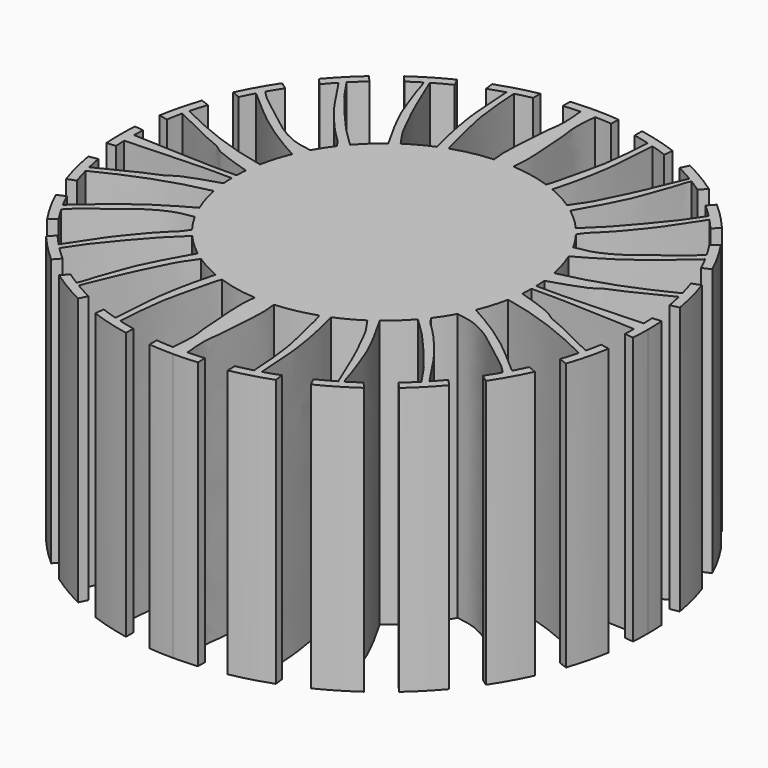
from build123d import *

# Parameters (mm, degrees)
F1_DEPTH = 50


with BuildPart() as f1:
    # F0 (on Top) → F1 (new body)
    with BuildSketch(Plane.XY):
        with BuildLine():
            Line((0, 0), (49.3273986462, 0))
            ThreePointArc((49.3273986462, 0), (49.298916157, 1.6760438374), (49.213501582, 3.3501521216))
            Line((49.213501582, 3.3501521216), (47.5373530083, 3.1717845229))
            ThreePointArc((47.5373530083, 3.1717845229), (47.5942852128, 2.1550320601), (47.6294731034, 1.1372950318))
            add(Edge.make_bspline(
                [(47.6294731034, 1.1372950318), (46.3712920989, 1.0628071526), (43.4352199638, 0.890181972), (36.2008391738, 0.686344171), (31.7515938356, 0.4861788056), (29.2112234836, 0.5364981559), (28.0081679298, 0.559889763)],
                knots=[0, 0, 0, 0, 0.2328109571, 0.5395849587, 0.7831710415, 1, 1, 1, 1], degree=3))
            ThreePointArc((28.0081679298, 0.559889763), (27.969369199, 1.5764941933), (27.8936832529, 2.5910194747))
            add(Edge.make_bspline(
                [(46.3850588031, 10.8759582536), (45.8598270332, 10.6207593434), (44.435961128, 9.9458278042), (39.6938514622, 7.3949704015), (35.981318187, 6.1546861655), (34.7826198673, 4.7659885777), (30.6731847526, 3.4678549046), (27.8936832529, 2.5910194747)],
                knots=[0, 0, 0, 0, 0.1477261764, 0.3900789969, 0.5905522579, 0.7227118143, 1, 1, 1, 1], degree=3))
            ThreePointArc((46.3850588031, 10.8759582536), (46.6985862827, 9.4393954939), (46.967633971, 7.9938418337))
            Line((46.967633971, 7.9938418337), (48.6212113007, 8.3168545045))
            ThreePointArc((48.6212113007, 8.3168545045), (47.8116470611, 12.1341939371), (46.7028665803, 15.875594804))
            Line((46.7028665803, 15.875594804), (45.1214123702, 15.2943876574))
            ThreePointArc((45.1214123702, 15.2943876574), (45.6294740343, 13.704424375), (46.0815284024, 12.0976397778))
            add(Edge.make_bspline(
                [(27.4927480756, 5.3777086742), (28.8996199271, 5.6819161376), (32.1030915932, 6.3756227086), (39.4254133195, 8.8449892021), (43.8684537343, 11.0162260724), (46.0815284024, 12.0976397778)],
                knots=[0, 0, 0, 0, 0.2804796742, 0.6419880735, 1, 1, 1, 1], degree=3))
            ThreePointArc((27.4927480756, 5.3777086742), (26.8003217814, 8.1555931572), (25.8279946818, 10.8483011595))
            add(Edge.make_bspline(
                [(41.9622849228, 22.5616221082), (41.1732003138, 21.8688485387), (39.2645779127, 20.2131431743), (34.4048729326, 16.0100792515), (29.100790265, 12.6573834675), (26.8175433189, 11.3935393327), (25.8279946818, 10.8483011595)],
                knots=[0, 0, 0, 0, 0.2101592807, 0.4990280773, 0.7847387565, 1, 1, 1, 1], degree=3))
            ThreePointArc((41.9622849228, 22.5616221082), (42.6042926127, 21.324502317), (43.2098378046, 20.0691321435))
            Line((43.2098378046, 20.0691321435), (44.7593669132, 20.7314092797))
            ThreePointArc((44.7593669132, 20.7314092797), (43.0031689025, 24.1644309169), (40.9841673723, 27.449777449))
            Line((40.9841673723, 27.449777449), (39.6268848832, 26.4493883209))
            ThreePointArc((39.6268848832, 26.4493883209), (40.4629683279, 25.1517065463), (41.2565717104, 23.8276192432))
            add(Edge.make_bspline(
                [(24.5528357291, 13.4881134704), (25.2238018883, 13.5912810264), (26.5916072967, 13.7918595015), (28.7919870425, 14.4347070447), (32.2533264446, 16.3352503279), (35.5135176454, 19.2277572827), (39.6659422556, 22.0707365112), (40.799584575, 23.3223624272), (41.2565717104, 23.8276192432)],
                knots=[0, 0, 0, 0, 0.1318995589, 0.271495252, 0.4533138354, 0.6526010947, 0.8598101896, 1, 1, 1, 1], degree=3))
            ThreePointArc((24.5528357291, 13.4881134704), (23.5088527795, 15.2349856686), (22.3408068261, 16.9014584487))
            add(Edge.make_bspline(
                [(34.6454470535, 32.7040234001), (33.8649927711, 31.5031967732), (32.3293630696, 29.1648664879), (30.2958538064, 26.1155560615), (27.7330801595, 23.0268659736), (25.5481386251, 20.3412710575), (23.2996800517, 18.4824040334), (22.6411764224, 17.388792518), (22.3408068261, 16.9014584487)],
                knots=[0, 0, 0, 0, 0.1890170361, 0.3655285629, 0.5492034478, 0.7220437242, 0.8771218891, 1, 1, 1, 1], degree=3))
            ThreePointArc((34.6454470535, 32.7040234001), (35.5985501446, 31.6639128298), (36.52044008, 30.5960390322))
            Line((36.52044008, 30.5960390322), (37.6554457069, 31.8631396101))
            ThreePointArc((37.6554457069, 31.8631396101), (35.1815420401, 34.5752998089), (32.5127886275, 37.0959678788))
            Line((32.5127886275, 37.0959678788), (31.3851048708, 35.844599877))
            ThreePointArc((31.3851048708, 35.844599877), (32.6276507802, 34.7173811319), (33.8297396123, 33.5471141212))
            add(Edge.make_bspline(
                [(21.0955733837, 18.43224704), (22.0700672951, 19.3462750947), (24.052239554, 21.2072717305), (26.999161102, 24.5628414529), (29.3318342929, 27.3841201583), (31.5299195684, 30.0456909874), (32.9890924291, 32.2641370078), (33.5789865645, 33.1631534519), (33.8297396123, 33.5471141212)],
                knots=[0, 0, 0, 0, 0.1875745113, 0.383784229, 0.5628819358, 0.7362623182, 0.8869977372, 1, 1, 1, 1], degree=3))
            ThreePointArc((21.0955733837, 18.43224704), (19.1472468565, 20.4488113383), (17.0070868029, 22.2605019218))
            add(Edge.make_bspline(
                [(17.0070868029, 22.2605019218), (17.4155014593, 22.9451904539), (18.3233634859, 24.477237031), (20.1783329247, 28.0049408464), (21.8175031004, 31.2988961323), (22.8383781674, 34.3683908678), (23.9134156285, 37.0080144012), (24.6075396116, 39.7474161959), (24.9370439562, 40.3326570602), (25.0448213736, 40.5292125566)],
                knots=[0, 0, 0, 0, 0.1372246914, 0.3093943302, 0.4765657173, 0.6300655385, 0.7789271603, 0.9219707592, 1, 1, 1, 1], degree=3))
            ThreePointArc((25.0448213736, 40.5292125566), (26.2174526345, 39.780715497), (27.3677305584, 38.9983008884))
            Line((27.3677305584, 38.9983008884), (28.49571128, 40.2639627439))
            ThreePointArc((28.49571128, 40.2639627439), (25.1992296662, 42.4050832027), (21.7427286252, 44.2769241155))
            Line((21.7427286252, 44.2769241155), (20.9962790463, 42.767001465))
            ThreePointArc((20.9962790463, 42.767001465), (22.642910072, 41.9184776867), (24.2553114239, 41.0065850301))
            add(Edge.make_bspline(
                [(24.2553114239, 41.0065850301), (23.7044997667, 39.6983108146), (22.5799219056, 37.0272756944), (20.7544033793, 32.581554416), (19.1841860857, 29.5617304896), (17.6894996673, 26.285845161), (16.2989808217, 24.468075739), (15.7701327054, 23.6653950952), (15.5365029256, 23.3106847641)],
                knots=[0, 0, 0, 0, 0.1954156948, 0.3995384006, 0.5745041675, 0.7513576031, 0.8921086795, 1, 1, 1, 1], degree=3))
            ThreePointArc((15.5365029256, 23.3106847641), (13.2117651001, 24.7026356948), (10.7634244587, 25.8634808418))
            add(Edge.make_bspline(
                [(10.7634244587, 25.8634808418), (10.9059322768, 26.5103179886), (11.2048807012, 27.8990794744), (12.0359149307, 30.612410426), (12.5833008577, 34.0597661665), (13.1727371696, 37.6110964496), (13.2626677064, 40.7786224359), (13.5839765125, 43.8170910605), (13.639853537, 45.0982034997), (13.6581208081, 45.6433553114)],
                knots=[0, 0, 0, 0, 0.1215133014, 0.2641462618, 0.4241786762, 0.5856369393, 0.7386057186, 0.8865603914, 1, 1, 1, 1], degree=3))
            ThreePointArc((13.6581208081, 45.6433553114), (15.167037808, 45.1643787982), (16.6592082372, 44.6355343757))
            Line((16.6592082372, 44.6355343757), (16.867843382, 46.353728187))
            ThreePointArc((16.867843382, 46.353728187), (13.2187655101, 47.5232205936), (9.4899169163, 48.4059266425))
            Line((9.4899169163, 48.4059266425), (9.4899169163, 46.6883457087))
            ThreePointArc((9.4899169163, 46.6883457087), (11.0045945607, 46.3547090019), (12.5076097102, 45.971946309))
            add(Edge.make_bspline(
                [(12.5076097102, 45.971946309), (12.488892371, 45.3906098098), (12.4418705982, 44.0058963919), (12.0618807192, 40.3740692786), (11.6158607939, 36.0651586409), (10.2785826644, 31.2660174206), (9.5690830217, 27.7207748229), (9.2323151338, 26.8275564436), (9.1059726068, 26.4924934692)],
                knots=[0, 0, 0, 0, 0.1295015997, 0.3075996043, 0.5062115312, 0.7197262195, 0.8965447567, 1, 1, 1, 1], degree=3))
            ThreePointArc((9.1059726068, 26.4924934692), (5.497973585, 27.4689503584), (1.7920952056, 27.9563828509))
            add(Edge.make_bspline(
                [(1.7920952056, 27.9563828509), (1.8843936199, 28.6532147829), (2.0893377186, 30.1894695885), (1.9457516203, 33.5011277152), (1.6447474926, 37.0717778636), (1.5338914885, 40.1180998718), (0.9298577098, 42.9411722382), (1.213881654, 45.9425789488), (1.3739338283, 47.6232343918)],
                knots=[0, 0, 0, 0, 0.1373105822, 0.3058526538, 0.4830128617, 0.6428550703, 0.7984320443, 1, 1, 1, 1], degree=3))
            ThreePointArc((1.3739338283, 47.6232343918), (2.9441931769, 47.5519912794), (4.5112477101, 47.428986835))
            Line((4.5112477101, 47.428986835), (4.5295100567, 49.1189962829))
            ThreePointArc((4.5295100567, 49.1189962829), (2.2671509047, 49.2752705114), (0, 49.3273986462))
            Line((0, 49.3273986462), (0, 0))
        make_face()
        with BuildLine():
            ThreePointArc((49.213501582, -3.3501521216), (49.298916157, -1.6760438374), (49.3273986462, 0))
            Line((49.3273986462, 0), (0, 0))
            Line((0, 0), (0, -49.3273986462))
            ThreePointArc((0, -49.3273986462), (2.2671509047, -49.2752705114), (4.5295100567, -49.1189962829))
            Line((4.5295100567, -49.1189962829), (4.5112477101, -47.428986835))
            ThreePointArc((4.5112477101, -47.428986835), (2.9441931769, -47.5519912794), (1.3739338283, -47.6232343918))
            add(Edge.make_bspline(
                [(1.7920952056, -27.9563828509), (1.8843936199, -28.6532147829), (2.0893377186, -30.1894695885), (1.9457516203, -33.5011277152), (1.6447474926, -37.0717778636), (1.5338914885, -40.1180998718), (0.9298577098, -42.9411722382), (1.213881654, -45.9425789488), (1.3739338283, -47.6232343918)],
                knots=[0, 0, 0, 0, 0.1373105822, 0.3058526538, 0.4830128617, 0.6428550703, 0.7984320443, 1, 1, 1, 1], degree=3))
            ThreePointArc((1.7920952056, -27.9563828509), (5.497973585, -27.4689503584), (9.1059726068, -26.4924934692))
            add(Edge.make_bspline(
                [(12.5076097102, -45.971946309), (12.488892371, -45.3906098098), (12.4418705982, -44.0058963919), (12.0618807192, -40.3740692786), (11.6158607939, -36.0651586409), (10.2785826644, -31.2660174206), (9.5690830217, -27.7207748229), (9.2323151338, -26.8275564436), (9.1059726068, -26.4924934692)],
                knots=[0, 0, 0, 0, 0.1295015997, 0.3075996043, 0.5062115312, 0.7197262195, 0.8965447567, 1, 1, 1, 1], degree=3))
            ThreePointArc((12.5076097102, -45.971946309), (11.0045945607, -46.3547090019), (9.4899169163, -46.6883457087))
            Line((9.4899169163, -46.6883457087), (9.4899169163, -48.4059266425))
            ThreePointArc((9.4899169163, -48.4059266425), (13.2187655101, -47.5232205936), (16.867843382, -46.353728187))
            Line((16.867843382, -46.353728187), (16.6592082372, -44.6355343757))
            ThreePointArc((16.6592082372, -44.6355343757), (15.167037808, -45.1643787982), (13.6581208081, -45.6433553114))
            add(Edge.make_bspline(
                [(10.7634244587, -25.8634808418), (10.9059322768, -26.5103179886), (11.2048807012, -27.8990794744), (12.0359149307, -30.612410426), (12.5833008577, -34.0597661665), (13.1727371696, -37.6110964496), (13.2626677064, -40.7786224359), (13.5839765125, -43.8170910605), (13.639853537, -45.0982034997), (13.6581208081, -45.6433553114)],
                knots=[0, 0, 0, 0, 0.1215133014, 0.2641462618, 0.4241786762, 0.5856369393, 0.7386057186, 0.8865603914, 1, 1, 1, 1], degree=3))
            ThreePointArc((10.7634244587, -25.8634808418), (13.2117651001, -24.7026356948), (15.5365029256, -23.3106847641))
            add(Edge.make_bspline(
                [(24.2553114239, -41.0065850301), (23.7044997667, -39.6983108146), (22.5799219056, -37.0272756944), (20.7544033793, -32.581554416), (19.1841860857, -29.5617304896), (17.6894996673, -26.285845161), (16.2989808217, -24.468075739), (15.7701327054, -23.6653950952), (15.5365029256, -23.3106847641)],
                knots=[0, 0, 0, 0, 0.1954156948, 0.3995384006, 0.5745041675, 0.7513576031, 0.8921086795, 1, 1, 1, 1], degree=3))
            ThreePointArc((24.2553114239, -41.0065850301), (22.642910072, -41.9184776867), (20.9962790463, -42.767001465))
            Line((20.9962790463, -42.767001465), (21.7427286252, -44.2769241155))
            ThreePointArc((21.7427286252, -44.2769241155), (25.1992296662, -42.4050832027), (28.49571128, -40.2639627439))
            Line((28.49571128, -40.2639627439), (27.3677305584, -38.9983008884))
            ThreePointArc((27.3677305584, -38.9983008884), (26.2174526345, -39.780715497), (25.0448213736, -40.5292125566))
            add(Edge.make_bspline(
                [(17.0070868029, -22.2605019218), (17.4155014593, -22.9451904539), (18.3233634859, -24.477237031), (20.1783329247, -28.0049408464), (21.8175031004, -31.2988961323), (22.8383781674, -34.3683908678), (23.9134156285, -37.0080144012), (24.6075396116, -39.7474161959), (24.9370439562, -40.3326570602), (25.0448213736, -40.5292125566)],
                knots=[0, 0, 0, 0, 0.1372246914, 0.3093943302, 0.4765657173, 0.6300655385, 0.7789271603, 0.9219707592, 1, 1, 1, 1], degree=3))
            ThreePointArc((17.0070868029, -22.2605019218), (19.1472468565, -20.4488113383), (21.0955733837, -18.43224704))
            add(Edge.make_bspline(
                [(21.0955733837, -18.43224704), (22.0700672951, -19.3462750947), (24.052239554, -21.2072717305), (26.999161102, -24.5628414529), (29.3318342929, -27.3841201583), (31.5299195684, -30.0456909874), (32.9890924291, -32.2641370078), (33.5789865645, -33.1631534519), (33.8297396123, -33.5471141212)],
                knots=[0, 0, 0, 0, 0.1875745113, 0.383784229, 0.5628819358, 0.7362623182, 0.8869977372, 1, 1, 1, 1], degree=3))
            ThreePointArc((33.8297396123, -33.5471141212), (32.6276507802, -34.7173811319), (31.3851048708, -35.844599877))
            Line((31.3851048708, -35.844599877), (32.5127886275, -37.0959678788))
            ThreePointArc((32.5127886275, -37.0959678788), (35.1815420401, -34.5752998089), (37.6554457069, -31.8631396101))
            Line((37.6554457069, -31.8631396101), (36.52044008, -30.5960390322))
            ThreePointArc((36.52044008, -30.5960390322), (35.5985501446, -31.6639128298), (34.6454470535, -32.7040234001))
            add(Edge.make_bspline(
                [(34.6454470535, -32.7040234001), (33.8649927711, -31.5031967732), (32.3293630696, -29.1648664879), (30.2958538064, -26.1155560615), (27.7330801595, -23.0268659736), (25.5481386251, -20.3412710575), (23.2996800517, -18.4824040334), (22.6411764224, -17.388792518), (22.3408068261, -16.9014584487)],
                knots=[0, 0, 0, 0, 0.1890170361, 0.3655285629, 0.5492034478, 0.7220437242, 0.8771218891, 1, 1, 1, 1], degree=3))
            ThreePointArc((22.3408068261, -16.9014584487), (23.5088527795, -15.2349856686), (24.5528357291, -13.4881134704))
            add(Edge.make_bspline(
                [(24.5528357291, -13.4881134704), (25.2238018883, -13.5912810264), (26.5916072967, -13.7918595015), (28.7919870425, -14.4347070447), (32.2533264446, -16.3352503279), (35.5135176454, -19.2277572827), (39.6659422556, -22.0707365112), (40.799584575, -23.3223624272), (41.2565717104, -23.8276192432)],
                knots=[0, 0, 0, 0, 0.1318995589, 0.271495252, 0.4533138354, 0.6526010947, 0.8598101896, 1, 1, 1, 1], degree=3))
            ThreePointArc((41.2565717104, -23.8276192432), (40.4629683279, -25.1517065463), (39.6268848832, -26.4493883209))
            Line((39.6268848832, -26.4493883209), (40.9841673723, -27.449777449))
            ThreePointArc((40.9841673723, -27.449777449), (43.0031689025, -24.1644309169), (44.7593669132, -20.7314092797))
            Line((44.7593669132, -20.7314092797), (43.2098378046, -20.0691321435))
            ThreePointArc((43.2098378046, -20.0691321435), (42.6042926127, -21.324502317), (41.9622849228, -22.5616221082))
            add(Edge.make_bspline(
                [(41.9622849228, -22.5616221082), (41.1732003138, -21.8688485387), (39.2645779127, -20.2131431743), (34.4048729326, -16.0100792515), (29.100790265, -12.6573834675), (26.8175433189, -11.3935393327), (25.8279946818, -10.8483011595)],
                knots=[0, 0, 0, 0, 0.2101592807, 0.4990280773, 0.7847387565, 1, 1, 1, 1], degree=3))
            ThreePointArc((25.8279946818, -10.8483011595), (26.8003217814, -8.1555931572), (27.4927480756, -5.3777086742))
            add(Edge.make_bspline(
                [(27.4927480756, -5.3777086742), (28.8996199271, -5.6819161376), (32.1030915932, -6.3756227086), (39.4254133195, -8.8449892021), (43.8684537343, -11.0162260724), (46.0815284024, -12.0976397778)],
                knots=[0, 0, 0, 0, 0.2804796742, 0.6419880735, 1, 1, 1, 1], degree=3))
            ThreePointArc((46.0815284024, -12.0976397778), (45.6294740343, -13.704424375), (45.1214123702, -15.2943876574))
            Line((45.1214123702, -15.2943876574), (46.7028665803, -15.875594804))
            ThreePointArc((46.7028665803, -15.875594804), (47.8116470611, -12.1341939371), (48.6212113007, -8.3168545045))
            Line((48.6212113007, -8.3168545045), (46.967633971, -7.9938418337))
            ThreePointArc((46.967633971, -7.9938418337), (46.6985862827, -9.4393954939), (46.3850588031, -10.8759582536))
            add(Edge.make_bspline(
                [(46.3850588031, -10.8759582536), (45.8598270332, -10.6207593434), (44.435961128, -9.9458278042), (39.6938514622, -7.3949704015), (35.981318187, -6.1546861655), (34.7826198673, -4.7659885777), (30.6731847526, -3.4678549046), (27.8936832529, -2.5910194747)],
                knots=[0, 0, 0, 0, 0.1477261764, 0.3900789969, 0.5905522579, 0.7227118143, 1, 1, 1, 1], degree=3))
            ThreePointArc((27.8936832529, -2.5910194747), (27.969369199, -1.5764941933), (28.0081679298, -0.559889763))
            add(Edge.make_bspline(
                [(47.6294731034, -1.1372950318), (46.3712920989, -1.0628071526), (43.4352199638, -0.890181972), (36.2008391738, -0.686344171), (31.7515938356, -0.4861788056), (29.2112234836, -0.5364981559), (28.0081679298, -0.559889763)],
                knots=[0, 0, 0, 0, 0.2328109571, 0.5395849587, 0.7831710415, 1, 1, 1, 1], degree=3))
            ThreePointArc((47.6294731034, -1.1372950318), (47.5942852128, -2.1550320601), (47.5373530083, -3.1717845229))
            Line((47.5373530083, -3.1717845229), (49.213501582, -3.3501521216))
        make_face()
        with BuildLine():
            Line((-49.3273986462, 0), (0, 0))
            Line((0, 0), (0, 49.3273986462))
            ThreePointArc((0, 49.3273986462), (-2.2671509047, 49.2752705114), (-4.5295100567, 49.1189962829))
            Line((-4.5295100567, 49.1189962829), (-4.5112477101, 47.428986835))
            ThreePointArc((-4.5112477101, 47.428986835), (-2.9441931769, 47.5519912794), (-1.3739338283, 47.6232343918))
            add(Edge.make_bspline(
                [(-1.7920952056, 27.9563828509), (-1.8843936199, 28.6532147829), (-2.0893377186, 30.1894695885), (-1.9457516203, 33.5011277152), (-1.6447474926, 37.0717778636), (-1.5338914885, 40.1180998718), (-0.9298577098, 42.9411722382), (-1.213881654, 45.9425789488), (-1.3739338283, 47.6232343918)],
                knots=[0, 0, 0, 0, 0.1373105822, 0.3058526538, 0.4830128617, 0.6428550703, 0.7984320443, 1, 1, 1, 1], degree=3))
            ThreePointArc((-1.7920952056, 27.9563828509), (-5.497973585, 27.4689503584), (-9.1059726068, 26.4924934692))
            add(Edge.make_bspline(
                [(-12.5076097102, 45.971946309), (-12.488892371, 45.3906098098), (-12.4418705982, 44.0058963919), (-12.0618807192, 40.3740692786), (-11.6158607939, 36.0651586409), (-10.2785826644, 31.2660174206), (-9.5690830217, 27.7207748229), (-9.2323151338, 26.8275564436), (-9.1059726068, 26.4924934692)],
                knots=[0, 0, 0, 0, 0.1295015997, 0.3075996043, 0.5062115312, 0.7197262195, 0.8965447567, 1, 1, 1, 1], degree=3))
            ThreePointArc((-12.5076097102, 45.971946309), (-11.0045945607, 46.3547090019), (-9.4899169163, 46.6883457087))
            Line((-9.4899169163, 46.6883457087), (-9.4899169163, 48.4059266425))
            ThreePointArc((-9.4899169163, 48.4059266425), (-13.2187655101, 47.5232205936), (-16.867843382, 46.353728187))
            Line((-16.867843382, 46.353728187), (-16.6592082372, 44.6355343757))
            ThreePointArc((-16.6592082372, 44.6355343757), (-15.167037808, 45.1643787982), (-13.6581208081, 45.6433553114))
            add(Edge.make_bspline(
                [(-10.7634244587, 25.8634808418), (-10.9059322768, 26.5103179886), (-11.2048807012, 27.8990794744), (-12.0359149307, 30.612410426), (-12.5833008577, 34.0597661665), (-13.1727371696, 37.6110964496), (-13.2626677064, 40.7786224359), (-13.5839765125, 43.8170910605), (-13.639853537, 45.0982034997), (-13.6581208081, 45.6433553114)],
                knots=[0, 0, 0, 0, 0.1215133014, 0.2641462618, 0.4241786762, 0.5856369393, 0.7386057186, 0.8865603914, 1, 1, 1, 1], degree=3))
            ThreePointArc((-10.7634244587, 25.8634808418), (-13.2117651001, 24.7026356948), (-15.5365029256, 23.3106847641))
            add(Edge.make_bspline(
                [(-24.2553114239, 41.0065850301), (-23.7044997667, 39.6983108146), (-22.5799219056, 37.0272756944), (-20.7544033793, 32.581554416), (-19.1841860857, 29.5617304896), (-17.6894996673, 26.285845161), (-16.2989808217, 24.468075739), (-15.7701327054, 23.6653950952), (-15.5365029256, 23.3106847641)],
                knots=[0, 0, 0, 0, 0.1954156948, 0.3995384006, 0.5745041675, 0.7513576031, 0.8921086795, 1, 1, 1, 1], degree=3))
            ThreePointArc((-24.2553114239, 41.0065850301), (-22.642910072, 41.9184776867), (-20.9962790463, 42.767001465))
            Line((-20.9962790463, 42.767001465), (-21.7427286252, 44.2769241155))
            ThreePointArc((-21.7427286252, 44.2769241155), (-25.1992296662, 42.4050832027), (-28.49571128, 40.2639627439))
            Line((-28.49571128, 40.2639627439), (-27.3677305584, 38.9983008884))
            ThreePointArc((-27.3677305584, 38.9983008884), (-26.2174526345, 39.780715497), (-25.0448213736, 40.5292125566))
            add(Edge.make_bspline(
                [(-17.0070868029, 22.2605019218), (-17.4155014593, 22.9451904539), (-18.3233634859, 24.477237031), (-20.1783329247, 28.0049408464), (-21.8175031004, 31.2988961323), (-22.8383781674, 34.3683908678), (-23.9134156285, 37.0080144012), (-24.6075396116, 39.7474161959), (-24.9370439562, 40.3326570602), (-25.0448213736, 40.5292125566)],
                knots=[0, 0, 0, 0, 0.1372246914, 0.3093943302, 0.4765657173, 0.6300655385, 0.7789271603, 0.9219707592, 1, 1, 1, 1], degree=3))
            ThreePointArc((-17.0070868029, 22.2605019218), (-19.1472468565, 20.4488113383), (-21.0955733837, 18.43224704))
            add(Edge.make_bspline(
                [(-21.0955733837, 18.43224704), (-22.0700672951, 19.3462750947), (-24.052239554, 21.2072717305), (-26.999161102, 24.5628414529), (-29.3318342929, 27.3841201583), (-31.5299195684, 30.0456909874), (-32.9890924291, 32.2641370078), (-33.5789865645, 33.1631534519), (-33.8297396123, 33.5471141212)],
                knots=[0, 0, 0, 0, 0.1875745113, 0.383784229, 0.5628819358, 0.7362623182, 0.8869977372, 1, 1, 1, 1], degree=3))
            ThreePointArc((-33.8297396123, 33.5471141212), (-32.6276507802, 34.7173811319), (-31.3851048708, 35.844599877))
            Line((-31.3851048708, 35.844599877), (-32.5127886275, 37.0959678788))
            ThreePointArc((-32.5127886275, 37.0959678788), (-35.1815420401, 34.5752998089), (-37.6554457069, 31.8631396101))
            Line((-37.6554457069, 31.8631396101), (-36.52044008, 30.5960390322))
            ThreePointArc((-36.52044008, 30.5960390322), (-35.5985501446, 31.6639128298), (-34.6454470535, 32.7040234001))
            add(Edge.make_bspline(
                [(-34.6454470535, 32.7040234001), (-33.8649927711, 31.5031967732), (-32.3293630696, 29.1648664879), (-30.2958538064, 26.1155560615), (-27.7330801595, 23.0268659736), (-25.5481386251, 20.3412710575), (-23.2996800517, 18.4824040334), (-22.6411764224, 17.388792518), (-22.3408068261, 16.9014584487)],
                knots=[0, 0, 0, 0, 0.1890170361, 0.3655285629, 0.5492034478, 0.7220437242, 0.8771218891, 1, 1, 1, 1], degree=3))
            ThreePointArc((-22.3408068261, 16.9014584487), (-23.5088527795, 15.2349856686), (-24.5528357291, 13.4881134704))
            add(Edge.make_bspline(
                [(-24.5528357291, 13.4881134704), (-25.2238018883, 13.5912810264), (-26.5916072967, 13.7918595015), (-28.7919870425, 14.4347070447), (-32.2533264446, 16.3352503279), (-35.5135176454, 19.2277572827), (-39.6659422556, 22.0707365112), (-40.799584575, 23.3223624272), (-41.2565717104, 23.8276192432)],
                knots=[0, 0, 0, 0, 0.1318995589, 0.271495252, 0.4533138354, 0.6526010947, 0.8598101896, 1, 1, 1, 1], degree=3))
            ThreePointArc((-41.2565717104, 23.8276192432), (-40.4629683279, 25.1517065463), (-39.6268848832, 26.4493883209))
            Line((-39.6268848832, 26.4493883209), (-40.9841673723, 27.449777449))
            ThreePointArc((-40.9841673723, 27.449777449), (-43.0031689025, 24.1644309169), (-44.7593669132, 20.7314092797))
            Line((-44.7593669132, 20.7314092797), (-43.2098378046, 20.0691321435))
            ThreePointArc((-43.2098378046, 20.0691321435), (-42.6042926127, 21.324502317), (-41.9622849228, 22.5616221082))
            add(Edge.make_bspline(
                [(-41.9622849228, 22.5616221082), (-41.1732003138, 21.8688485387), (-39.2645779127, 20.2131431743), (-34.4048729326, 16.0100792515), (-29.100790265, 12.6573834675), (-26.8175433189, 11.3935393327), (-25.8279946818, 10.8483011595)],
                knots=[0, 0, 0, 0, 0.2101592807, 0.4990280773, 0.7847387565, 1, 1, 1, 1], degree=3))
            ThreePointArc((-25.8279946818, 10.8483011595), (-26.8003217814, 8.1555931572), (-27.4927480756, 5.3777086742))
            add(Edge.make_bspline(
                [(-27.4927480756, 5.3777086742), (-28.8996199271, 5.6819161376), (-32.1030915932, 6.3756227086), (-39.4254133195, 8.8449892021), (-43.8684537343, 11.0162260724), (-46.0815284024, 12.0976397778)],
                knots=[0, 0, 0, 0, 0.2804796742, 0.6419880735, 1, 1, 1, 1], degree=3))
            ThreePointArc((-46.0815284024, 12.0976397778), (-45.6294740343, 13.704424375), (-45.1214123702, 15.2943876574))
            Line((-45.1214123702, 15.2943876574), (-46.7028665803, 15.875594804))
            ThreePointArc((-46.7028665803, 15.875594804), (-47.8116470611, 12.1341939371), (-48.6212113007, 8.3168545045))
            Line((-48.6212113007, 8.3168545045), (-46.967633971, 7.9938418337))
            ThreePointArc((-46.967633971, 7.9938418337), (-46.6985862827, 9.4393954939), (-46.3850588031, 10.8759582536))
            add(Edge.make_bspline(
                [(-46.3850588031, 10.8759582536), (-45.8598270332, 10.6207593434), (-44.435961128, 9.9458278042), (-39.6938514622, 7.3949704015), (-35.981318187, 6.1546861655), (-34.7826198673, 4.7659885777), (-30.6731847526, 3.4678549046), (-27.8936832529, 2.5910194747)],
                knots=[0, 0, 0, 0, 0.1477261764, 0.3900789969, 0.5905522579, 0.7227118143, 1, 1, 1, 1], degree=3))
            ThreePointArc((-27.8936832529, 2.5910194747), (-27.969369199, 1.5764941933), (-28.0081679298, 0.559889763))
            add(Edge.make_bspline(
                [(-47.6294731034, 1.1372950318), (-46.3712920989, 1.0628071526), (-43.4352199638, 0.890181972), (-36.2008391738, 0.686344171), (-31.7515938356, 0.4861788056), (-29.2112234836, 0.5364981559), (-28.0081679298, 0.559889763)],
                knots=[0, 0, 0, 0, 0.2328109571, 0.5395849587, 0.7831710415, 1, 1, 1, 1], degree=3))
            ThreePointArc((-47.6294731034, 1.1372950318), (-47.5942852128, 2.1550320601), (-47.5373530083, 3.1717845229))
            Line((-47.5373530083, 3.1717845229), (-49.213501582, 3.3501521216))
            ThreePointArc((-49.213501582, 3.3501521216), (-49.298916157, 1.6760438374), (-49.3273986462, 0))
        make_face()
        with BuildLine():
            Line((0, -49.3273986462), (0, 0))
            Line((0, 0), (-49.3273986462, 0))
            ThreePointArc((-49.3273986462, 0), (-49.298916157, -1.6760438374), (-49.213501582, -3.3501521216))
            Line((-49.213501582, -3.3501521216), (-47.5373530083, -3.1717845229))
            ThreePointArc((-47.5373530083, -3.1717845229), (-47.5942852128, -2.1550320601), (-47.6294731034, -1.1372950318))
            add(Edge.make_bspline(
                [(-47.6294731034, -1.1372950318), (-46.3712920989, -1.0628071526), (-43.4352199638, -0.890181972), (-36.2008391738, -0.686344171), (-31.7515938356, -0.4861788056), (-29.2112234836, -0.5364981559), (-28.0081679298, -0.559889763)],
                knots=[0, 0, 0, 0, 0.2328109571, 0.5395849587, 0.7831710415, 1, 1, 1, 1], degree=3))
            ThreePointArc((-28.0081679298, -0.559889763), (-27.969369199, -1.5764941933), (-27.8936832529, -2.5910194747))
            add(Edge.make_bspline(
                [(-46.3850588031, -10.8759582536), (-45.8598270332, -10.6207593434), (-44.435961128, -9.9458278042), (-39.6938514622, -7.3949704015), (-35.981318187, -6.1546861655), (-34.7826198673, -4.7659885777), (-30.6731847526, -3.4678549046), (-27.8936832529, -2.5910194747)],
                knots=[0, 0, 0, 0, 0.1477261764, 0.3900789969, 0.5905522579, 0.7227118143, 1, 1, 1, 1], degree=3))
            ThreePointArc((-46.3850588031, -10.8759582536), (-46.6985862827, -9.4393954939), (-46.967633971, -7.9938418337))
            Line((-46.967633971, -7.9938418337), (-48.6212113007, -8.3168545045))
            ThreePointArc((-48.6212113007, -8.3168545045), (-47.8116470611, -12.1341939371), (-46.7028665803, -15.875594804))
            Line((-46.7028665803, -15.875594804), (-45.1214123702, -15.2943876574))
            ThreePointArc((-45.1214123702, -15.2943876574), (-45.6294740343, -13.704424375), (-46.0815284024, -12.0976397778))
            add(Edge.make_bspline(
                [(-27.4927480756, -5.3777086742), (-28.8996199271, -5.6819161376), (-32.1030915932, -6.3756227086), (-39.4254133195, -8.8449892021), (-43.8684537343, -11.0162260724), (-46.0815284024, -12.0976397778)],
                knots=[0, 0, 0, 0, 0.2804796742, 0.6419880735, 1, 1, 1, 1], degree=3))
            ThreePointArc((-27.4927480756, -5.3777086742), (-26.8003217814, -8.1555931572), (-25.8279946818, -10.8483011595))
            add(Edge.make_bspline(
                [(-41.9622849228, -22.5616221082), (-41.1732003138, -21.8688485387), (-39.2645779127, -20.2131431743), (-34.4048729326, -16.0100792515), (-29.100790265, -12.6573834675), (-26.8175433189, -11.3935393327), (-25.8279946818, -10.8483011595)],
                knots=[0, 0, 0, 0, 0.2101592807, 0.4990280773, 0.7847387565, 1, 1, 1, 1], degree=3))
            ThreePointArc((-41.9622849228, -22.5616221082), (-42.6042926127, -21.324502317), (-43.2098378046, -20.0691321435))
            Line((-43.2098378046, -20.0691321435), (-44.7593669132, -20.7314092797))
            ThreePointArc((-44.7593669132, -20.7314092797), (-43.0031689025, -24.1644309169), (-40.9841673723, -27.449777449))
            Line((-40.9841673723, -27.449777449), (-39.6268848832, -26.4493883209))
            ThreePointArc((-39.6268848832, -26.4493883209), (-40.4629683279, -25.1517065463), (-41.2565717104, -23.8276192432))
            add(Edge.make_bspline(
                [(-24.5528357291, -13.4881134704), (-25.2238018883, -13.5912810264), (-26.5916072967, -13.7918595015), (-28.7919870425, -14.4347070447), (-32.2533264446, -16.3352503279), (-35.5135176454, -19.2277572827), (-39.6659422556, -22.0707365112), (-40.799584575, -23.3223624272), (-41.2565717104, -23.8276192432)],
                knots=[0, 0, 0, 0, 0.1318995589, 0.271495252, 0.4533138354, 0.6526010947, 0.8598101896, 1, 1, 1, 1], degree=3))
            ThreePointArc((-24.5528357291, -13.4881134704), (-23.5088527795, -15.2349856686), (-22.3408068261, -16.9014584487))
            add(Edge.make_bspline(
                [(-34.6454470535, -32.7040234001), (-33.8649927711, -31.5031967732), (-32.3293630696, -29.1648664879), (-30.2958538064, -26.1155560615), (-27.7330801595, -23.0268659736), (-25.5481386251, -20.3412710575), (-23.2996800517, -18.4824040334), (-22.6411764224, -17.388792518), (-22.3408068261, -16.9014584487)],
                knots=[0, 0, 0, 0, 0.1890170361, 0.3655285629, 0.5492034478, 0.7220437242, 0.8771218891, 1, 1, 1, 1], degree=3))
            ThreePointArc((-34.6454470535, -32.7040234001), (-35.5985501446, -31.6639128298), (-36.52044008, -30.5960390322))
            Line((-36.52044008, -30.5960390322), (-37.6554457069, -31.8631396101))
            ThreePointArc((-37.6554457069, -31.8631396101), (-35.1815420401, -34.5752998089), (-32.5127886275, -37.0959678788))
            Line((-32.5127886275, -37.0959678788), (-31.3851048708, -35.844599877))
            ThreePointArc((-31.3851048708, -35.844599877), (-32.6276507802, -34.7173811319), (-33.8297396123, -33.5471141212))
            add(Edge.make_bspline(
                [(-21.0955733837, -18.43224704), (-22.0700672951, -19.3462750947), (-24.052239554, -21.2072717305), (-26.999161102, -24.5628414529), (-29.3318342929, -27.3841201583), (-31.5299195684, -30.0456909874), (-32.9890924291, -32.2641370078), (-33.5789865645, -33.1631534519), (-33.8297396123, -33.5471141212)],
                knots=[0, 0, 0, 0, 0.1875745113, 0.383784229, 0.5628819358, 0.7362623182, 0.8869977372, 1, 1, 1, 1], degree=3))
            ThreePointArc((-21.0955733837, -18.43224704), (-19.1472468565, -20.4488113383), (-17.0070868029, -22.2605019218))
            add(Edge.make_bspline(
                [(-17.0070868029, -22.2605019218), (-17.4155014593, -22.9451904539), (-18.3233634859, -24.477237031), (-20.1783329247, -28.0049408464), (-21.8175031004, -31.2988961323), (-22.8383781674, -34.3683908678), (-23.9134156285, -37.0080144012), (-24.6075396116, -39.7474161959), (-24.9370439562, -40.3326570602), (-25.0448213736, -40.5292125566)],
                knots=[0, 0, 0, 0, 0.1372246914, 0.3093943302, 0.4765657173, 0.6300655385, 0.7789271603, 0.9219707592, 1, 1, 1, 1], degree=3))
            ThreePointArc((-25.0448213736, -40.5292125566), (-26.2174526345, -39.780715497), (-27.3677305584, -38.9983008884))
            Line((-27.3677305584, -38.9983008884), (-28.49571128, -40.2639627439))
            ThreePointArc((-28.49571128, -40.2639627439), (-25.1992296662, -42.4050832027), (-21.7427286252, -44.2769241155))
            Line((-21.7427286252, -44.2769241155), (-20.9962790463, -42.767001465))
            ThreePointArc((-20.9962790463, -42.767001465), (-22.642910072, -41.9184776867), (-24.2553114239, -41.0065850301))
            add(Edge.make_bspline(
                [(-24.2553114239, -41.0065850301), (-23.7044997667, -39.6983108146), (-22.5799219056, -37.0272756944), (-20.7544033793, -32.581554416), (-19.1841860857, -29.5617304896), (-17.6894996673, -26.285845161), (-16.2989808217, -24.468075739), (-15.7701327054, -23.6653950952), (-15.5365029256, -23.3106847641)],
                knots=[0, 0, 0, 0, 0.1954156948, 0.3995384006, 0.5745041675, 0.7513576031, 0.8921086795, 1, 1, 1, 1], degree=3))
            ThreePointArc((-15.5365029256, -23.3106847641), (-13.2117651001, -24.7026356948), (-10.7634244587, -25.8634808418))
            add(Edge.make_bspline(
                [(-10.7634244587, -25.8634808418), (-10.9059322768, -26.5103179886), (-11.2048807012, -27.8990794744), (-12.0359149307, -30.612410426), (-12.5833008577, -34.0597661665), (-13.1727371696, -37.6110964496), (-13.2626677064, -40.7786224359), (-13.5839765125, -43.8170910605), (-13.639853537, -45.0982034997), (-13.6581208081, -45.6433553114)],
                knots=[0, 0, 0, 0, 0.1215133014, 0.2641462618, 0.4241786762, 0.5856369393, 0.7386057186, 0.8865603914, 1, 1, 1, 1], degree=3))
            ThreePointArc((-13.6581208081, -45.6433553114), (-15.167037808, -45.1643787982), (-16.6592082372, -44.6355343757))
            Line((-16.6592082372, -44.6355343757), (-16.867843382, -46.353728187))
            ThreePointArc((-16.867843382, -46.353728187), (-13.2187655101, -47.5232205936), (-9.4899169163, -48.4059266425))
            Line((-9.4899169163, -48.4059266425), (-9.4899169163, -46.6883457087))
            ThreePointArc((-9.4899169163, -46.6883457087), (-11.0045945607, -46.3547090019), (-12.5076097102, -45.971946309))
            add(Edge.make_bspline(
                [(-12.5076097102, -45.971946309), (-12.488892371, -45.3906098098), (-12.4418705982, -44.0058963919), (-12.0618807192, -40.3740692786), (-11.6158607939, -36.0651586409), (-10.2785826644, -31.2660174206), (-9.5690830217, -27.7207748229), (-9.2323151338, -26.8275564436), (-9.1059726068, -26.4924934692)],
                knots=[0, 0, 0, 0, 0.1295015997, 0.3075996043, 0.5062115312, 0.7197262195, 0.8965447567, 1, 1, 1, 1], degree=3))
            ThreePointArc((-9.1059726068, -26.4924934692), (-5.497973585, -27.4689503584), (-1.7920952056, -27.9563828509))
            add(Edge.make_bspline(
                [(-1.7920952056, -27.9563828509), (-1.8843936199, -28.6532147829), (-2.0893377186, -30.1894695885), (-1.9457516203, -33.5011277152), (-1.6447474926, -37.0717778636), (-1.5338914885, -40.1180998718), (-0.9298577098, -42.9411722382), (-1.213881654, -45.9425789488), (-1.3739338283, -47.6232343918)],
                knots=[0, 0, 0, 0, 0.1373105822, 0.3058526538, 0.4830128617, 0.6428550703, 0.7984320443, 1, 1, 1, 1], degree=3))
            ThreePointArc((-1.3739338283, -47.6232343918), (-2.9441931769, -47.5519912794), (-4.5112477101, -47.428986835))
            Line((-4.5112477101, -47.428986835), (-4.5295100567, -49.1189962829))
            ThreePointArc((-4.5295100567, -49.1189962829), (-2.2671509047, -49.2752705114), (0, -49.3273986462))
        make_face()
    extrude(amount=F1_DEPTH)


solid = f1.part
